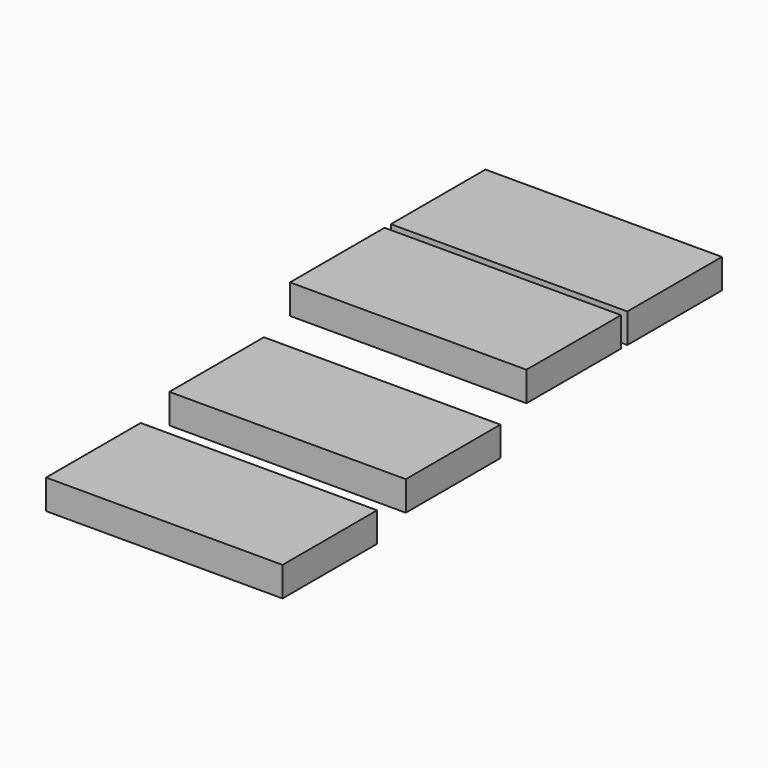
from build123d import *

# Parameters (mm, degrees)
F0_W     = 50.8
F0_H     = 25.4
F1_DEPTH = 6.35
F2_W     = 50.8
F2_H     = 25.4
F2_W_2   = 50.800006
F3_DEPTH = 6.35
F4_W     = 50.8
F4_H     = 25.4
F5_DEPTH = 6.35


with BuildPart() as f1:
    # F0 (on Top) → F1 (new body)
    with BuildSketch(Plane.XY):
        Rectangle(F0_W, F0_H)
    extrude(amount=F1_DEPTH)


with BuildPart() as f3:
    # F2 (on face) → F3 (new body)
    with BuildSketch(Plane.XY.offset(6.35)):
        with Locations((-1.421995, 61.267469)):
            Rectangle(F2_W, F2_H)
        with Locations((-1.421998, 34.174132)):
            Rectangle(F2_W_2, F2_H)
    extrude(amount=F3_DEPTH)


with BuildPart() as f5:
    # F4 (on Top) → F5 (new body)
    with BuildSketch(Plane.XY):
        with Locations((3.304248, -37.232271)):
            Rectangle(F4_W, F4_H)
    extrude(amount=F5_DEPTH)


with BuildPart() as f6_1:
    # F6: copy of F1
    add(f1.part)


with BuildPart() as f7_1:
    # F7: copy of F1
    add(f1.part)


solid = Compound([f1.part, f3.part, f5.part, f6_1.part, f7_1.part])
